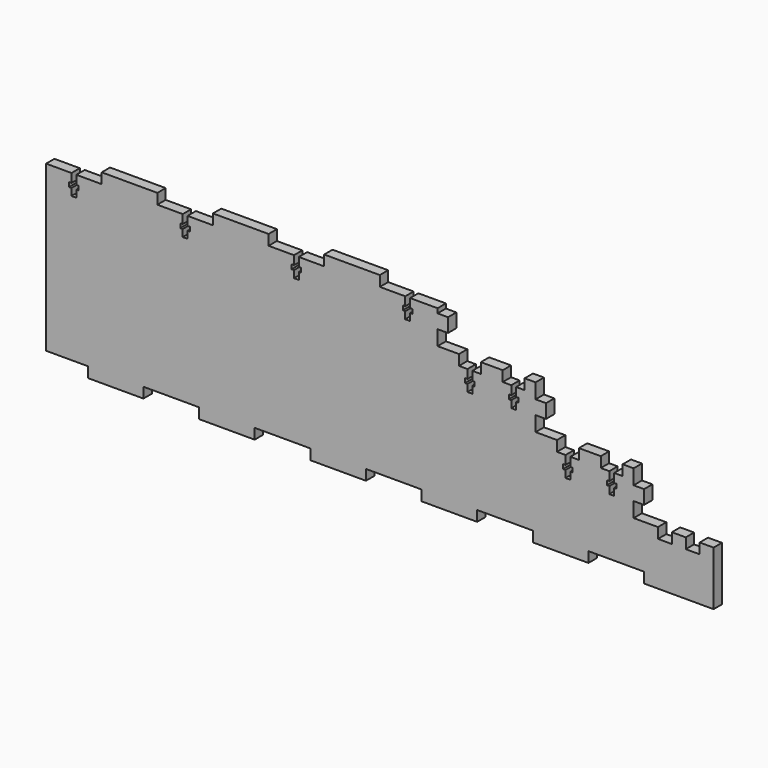
from build123d import *

# Parameters (mm, degrees)
F1_DEPTH  = 4.7625
F2_W      = 19.05
F2_H      = 4.7625
F2_W_2    = 25.4
F3_DEPTH  = 25.4
F4_W      = 4.7625
F4_H      = 6.825
F4_W_2    = 0.2375
F4_W_3    = 4.525
F5_DEPTH  = 25.4
F6_W      = 31.75
F6_H      = 24.7625
F7_DEPTH  = 4.7625
F8_W      = 4.7625
F8_H      = 6.825
F9_DEPTH  = 25.4
F10_W     = 6.35
F10_H     = 4.7625
F11_DEPTH = 25.4
F12_W     = 10
F12_H     = 4.7625
F13_DEPTH = 25.4
F14_W     = 25.4
F14_H     = 4.7625
F14_W_2   = 26.3625
F15_DEPTH = 25.4
F17_DEPTH = 25.4


with BuildPart() as f1:
    # F0 (on Front) → F1 (new body)
    with BuildSketch(Plane.XZ):
        Polygon((-273.05, 0), (0, 0), (0, 44.7625), (-44.7625, 44.7625), (-44.7625, 64.7625), (-89.525, 64.7625), (-89.525, 84.7625), (-129.525, 84.7625), (-273.05, 84.7625), align=None)
    extrude(amount=F1_DEPTH)

    # F2 (on face) → F3 (cut)
    with BuildSketch(Plane.XZ.offset(4.7625)):
        with Locations((-263.525, 2.38125)):
            Rectangle(F2_W, F2_H)
        with Locations((-12.7, 2.38125)):
            Rectangle(F2_W_2, F2_H)
        with Locations((-63.5, 2.38125)):
            Rectangle(F2_W_2, F2_H)
        with Locations((-114.3, 2.38125)):
            Rectangle(F2_W_2, F2_H)
        with Locations((-165.1, 2.38125)):
            Rectangle(F2_W_2, F2_H)
        with Locations((-215.9, 2.38125)):
            Rectangle(F2_W_2, F2_H)
    extrude(amount=-F3_DEPTH, mode=Mode.SUBTRACT)

    # F4 (on face) → F5 (cut)
    with BuildSketch(Plane.XZ.offset(4.7625)):
        with Locations((-47.14375, 61.35)):
            Rectangle(F4_W, F4_H)
        with Locations((-44.88125, 48.175)):
            Rectangle(F4_W_2, F4_H)
        with Locations((-47.2625, 48.175)):
            Rectangle(F4_W_3, F4_H)
        with Locations((-91.90625, 81.35)):
            Rectangle(F4_W, F4_H)
        with Locations((-91.90625, 68.175)):
            Rectangle(F4_W, F4_H)
    extrude(amount=-F5_DEPTH, mode=Mode.SUBTRACT)

    # F6 (on face) → F7 (join)
    with BuildSketch(Plane.XZ.offset(4.7625)):
        with Locations((15.875, 12.38125)):
            Rectangle(F6_W, F6_H)
    extrude(amount=-F7_DEPTH)

    # F8 (on face) → F9 (cut)
    with BuildSketch(Plane.XZ.offset(4.7625)):
        with Locations((-2.38125, 41.35)):
            Rectangle(F8_W, F8_H)
        with Locations((-2.38125, 28.175)):
            Rectangle(F8_W, F8_H)
    extrude(amount=-F9_DEPTH, mode=Mode.SUBTRACT)

    # F10 (on face) → F11 (cut)
    with BuildSketch(Plane.XZ.offset(4.7625)):
        with Locations((9.525, 22.38125)):
            Rectangle(F10_W, F10_H)
        with Locations((22.225, 22.38125)):
            Rectangle(F10_W, F10_H)
    extrude(amount=-F11_DEPTH, mode=Mode.SUBTRACT)

    # F12 (on face) → F13 (cut)
    with BuildSketch(Plane.XZ.offset(4.7625)):
        with Locations((-34.7625, 42.38125)):
            Rectangle(F12_W, F12_H)
        with Locations((-14.7625, 42.38125)):
            Rectangle(F12_W, F12_H)
        with Locations((-79.525, 62.38125)):
            Rectangle(F12_W, F12_H)
        with Locations((-59.525, 62.38125)):
            Rectangle(F12_W, F12_H)
    extrude(amount=-F13_DEPTH, mode=Mode.SUBTRACT)

    # F14 (on face) → F15 (cut)
    with BuildSketch(Plane.XZ.offset(4.7625)):
        with Locations((-209.55, 82.38125)):
            Rectangle(F14_W, F14_H)
        with Locations((-260.35, 82.38125)):
            Rectangle(F14_W, F14_H)
        with Locations((-158.75, 82.38125)):
            Rectangle(F14_W, F14_H)
        with Locations((-107.46875, 82.38125)):
            Rectangle(F14_W_2, F14_H)
    extrude(amount=-F15_DEPTH, mode=Mode.SUBTRACT)

    # F16 (on face) → F17 (cut)
    with BuildSketch(Plane.XZ.offset(4.7625)):
        Polygon((-33.6625, 40), (-35.8625, 40), (-35.8625, 36), (-36.9625, 36), (-36.9625, 34), (-35.8625, 34), (-35.8625, 30.7625), (-34.7625, 30.7625), (-33.6625, 30.7625), (-33.6625, 34), (-32.5625, 34), (-32.5625, 36), (-33.6625, 36), align=None)
        Polygon((-13.6625, 40), (-15.8625, 40), (-15.8625, 36), (-16.9625, 36), (-16.9625, 34), (-15.8625, 34), (-15.8625, 30.7625), (-14.7625, 30.7625), (-13.6625, 30.7625), (-13.6625, 34), (-12.5625, 34), (-12.5625, 36), (-13.6625, 36), align=None)
        Polygon((-78.425, 60), (-80.625, 60), (-80.625, 56), (-81.725, 56), (-81.725, 54), (-80.625, 54), (-80.625, 50.7625), (-79.525, 50.7625), (-78.425, 50.7625), (-78.425, 54), (-77.325, 54), (-77.325, 56), (-78.425, 56), align=None)
        Polygon((-58.425, 60), (-60.625, 60), (-60.625, 56), (-61.725, 56), (-61.725, 54), (-60.625, 54), (-60.625, 50.7625), (-59.525, 50.7625), (-58.425, 50.7625), (-58.425, 54), (-57.325, 54), (-57.325, 56), (-58.425, 56), align=None)
        Polygon((-157.65, 80), (-159.85, 80), (-159.85, 76), (-160.95, 76), (-160.95, 74), (-159.85, 74), (-159.85, 70.7625), (-158.75, 70.7625), (-157.65, 70.7625), (-157.65, 74), (-156.55, 74), (-156.55, 76), (-157.65, 76), align=None)
        Polygon((-208.45, 80), (-210.65, 80), (-210.65, 76), (-211.75, 76), (-211.75, 74), (-210.65, 74), (-210.65, 70.7625), (-209.55, 70.7625), (-208.45, 70.7625), (-208.45, 74), (-207.35, 74), (-207.35, 76), (-208.45, 76), align=None)
        Polygon((-259.25, 80), (-261.45, 80), (-261.45, 76), (-262.55, 76), (-262.55, 74), (-261.45, 74), (-261.45, 70.7625), (-260.35, 70.7625), (-259.25, 70.7625), (-259.25, 74), (-258.15, 74), (-258.15, 76), (-259.25, 76), align=None)
        Polygon((-106.85, 80), (-109.05, 80), (-109.05, 76), (-110.15, 76), (-110.15, 74), (-109.05, 74), (-109.05, 70.7625), (-107.95, 70.7625), (-106.85, 70.7625), (-106.85, 74), (-105.75, 74), (-105.75, 76), (-106.85, 76), align=None)
    extrude(amount=-F17_DEPTH, mode=Mode.SUBTRACT)


solid = f1.part
